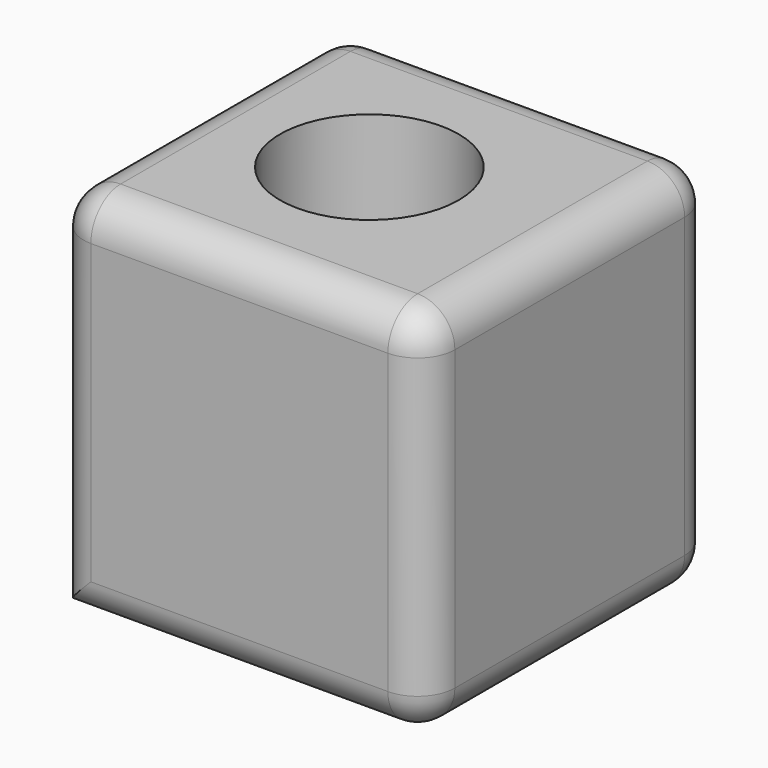
from build123d import *

# Parameters (mm, degrees)
F0_W     = 49.890485
F0_H     = 48.57757
F0_R     = 12
F1_DEPTH = 25
F2_R     = 5


with BuildPart() as f1:
    # F0 (on Top) → F1 (new body, symmetric)
    with BuildSketch(Plane.XY):
        with Locations((1.969362, 0)):
            Rectangle(F0_W, F0_H)
        Circle(F0_R, mode=Mode.SUBTRACT)
    extrude(amount=F1_DEPTH, both=True)

    # F2
    f2_edges = [f1.edges().sort_by_distance(p)[0] for p in [
        (-22.97588, 24.288785, 0),
        (1.969363, 24.288785, 25),
        (-22.97588, 0, 25),
        (-22.97588, -24.288785, 0),
        (26.914605, 0, 25),
        (1.969363, -24.288785, 25),
        (26.914605, 24.288785, 0),
        (26.914605, -24.288785, 0),
        (26.914605, 0, -25),
        (1.969363, 24.288785, -25),
        (1.969363, -24.288785, -25),
    ]]
    fillet(f2_edges, radius=F2_R)


solid = f1.part
